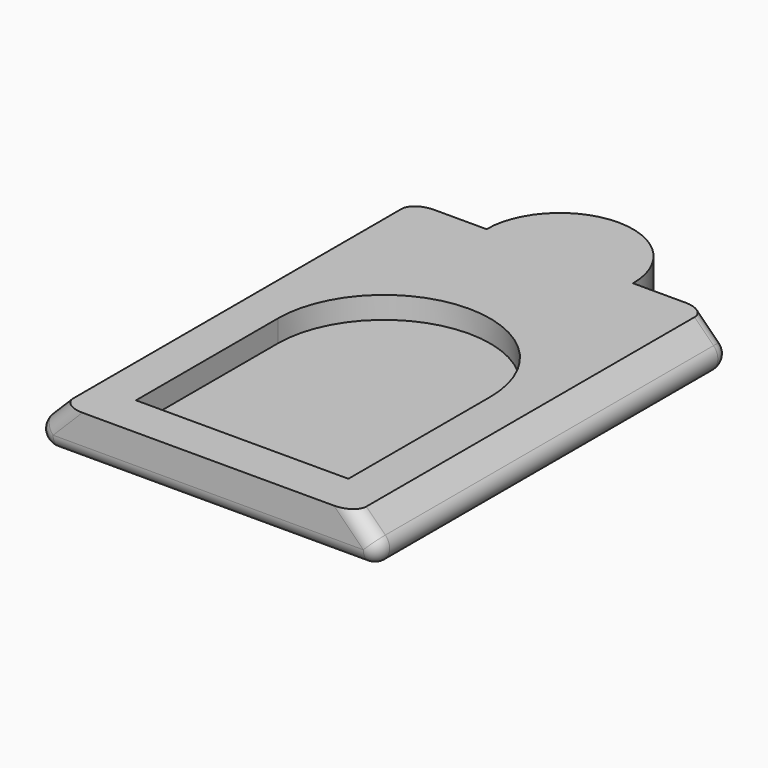
from build123d import *

# Parameters (mm, degrees)
PAD025_DEPTH         = 3
POCKET010_DEPTH      = 1.5
SKETCH059_W          = 32.687891
SKETCH059_H          = 10.975497
POCKET015_DEPTH      = 20.001
POCKET015_DEPTH_BACK = 15.001
FILLET006_R          = 1


with BuildPart() as part:
    # Sketch049 → Pad025 (new body)
    with BuildSketch(Plane.XY):
        with BuildLine():
            Line((-13, 15), (-5, 15))
            ThreePointArc((5, 15), (0, 20), (-5, 15))
            Line((5, 15), (13, 15))
            Line((13, 15), (13, -15))
            Line((13, -15), (-13, -15))
            Line((-13, -15), (-13, 15))
        make_face()
    extrude(amount=-PAD025_DEPTH)

    # Sketch050 → Pocket010 (cut)
    with BuildSketch(Plane.XY):
        with BuildLine():
            ThreePointArc((7.25, 0), (0, 7.25), (-7.25, 0))
            Line((-7.25, 0), (-7.25, -12.1))
            Line((-7.25, -12.1), (7.25, -12.1))
            Line((7.25, -12.1), (7.25, 0))
        make_face()
    extrude(amount=-POCKET010_DEPTH, mode=Mode.SUBTRACT)

    # Sketch059 → Pocket015 (cut, two sides)
    with BuildSketch(Plane.XZ) as pocket015_sk:
        with Locations((-0.0886585, -1.0893715)):
            Rectangle(SKETCH059_W, SKETCH059_H)
        with BuildLine():
            Line((10, 0), (-10, 0))
            Line((-10, 0), (-11.2928932188, -1.2928932188))
            ThreePointArc((-11.2928932188, -1.2928932188), (-11.5096659701, -2.3826834324), (-10.5857864376, -3))
            Line((-10.5857864376, -3), (10.5857864376, -3))
            ThreePointArc((10.5857864376, -3), (11.5096659701, -2.3826834324), (11.2928932188, -1.2928932188))
            Line((11.2928932188, -1.2928932188), (10, 0))
        make_face(mode=Mode.SUBTRACT)
    extrude(amount=-POCKET015_DEPTH, mode=Mode.SUBTRACT)
    extrude(pocket015_sk.sketch, amount=POCKET015_DEPTH_BACK, mode=Mode.SUBTRACT)

    # Fillet006
    fillet006_edges = [part.edges().sort_by_distance(p)[0] for p in [
        (0, -15, -3),
        (0, 20, -3),
        (7.792893, 15, -3),
        (-7.792893, 15, -3),
    ]]
    fillet(fillet006_edges, radius=FILLET006_R)


with BuildPart() as part_1:
    # Body017 placement: moved
    add(part.part.moved(Location((0, 0, -0.2))))


solid = part_1.part
